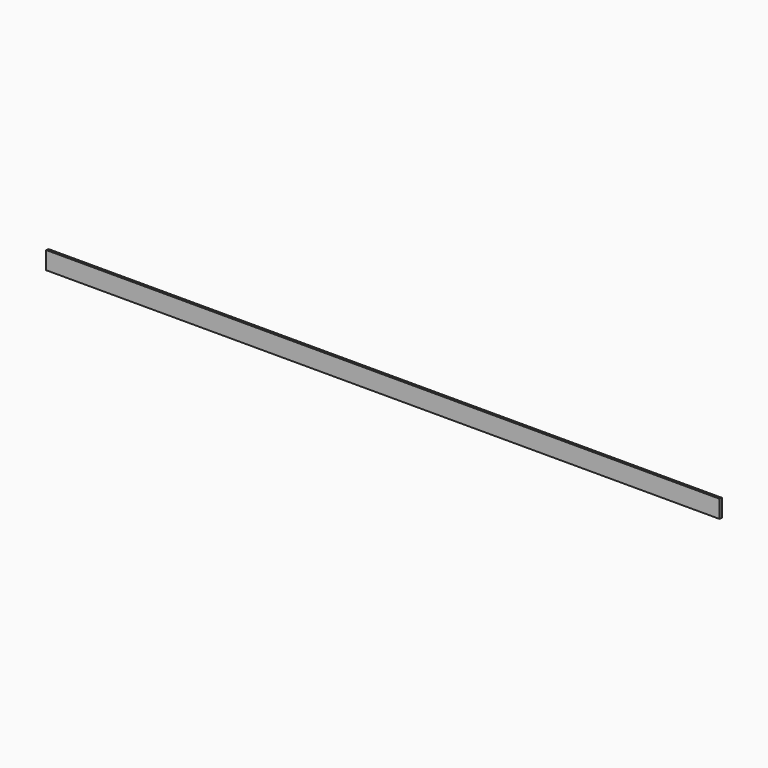
from build123d import *

# Parameters (mm, degrees)
F1_DEPTH = 7315.2


with BuildPart() as f1:
    # F0 (on Right) → F1 (new body)
    with BuildSketch(Plane.YZ):
        Polygon((32.565878, 0), (32.565878, 188.308071), (9.131996, 192.294439), (-2.994122, 194.357228), (-2.994122, 1.120555), (24.552364, -3.565413), (32.565878, -4.928602), align=None)
    extrude(amount=-F1_DEPTH)


solid = f1.part
